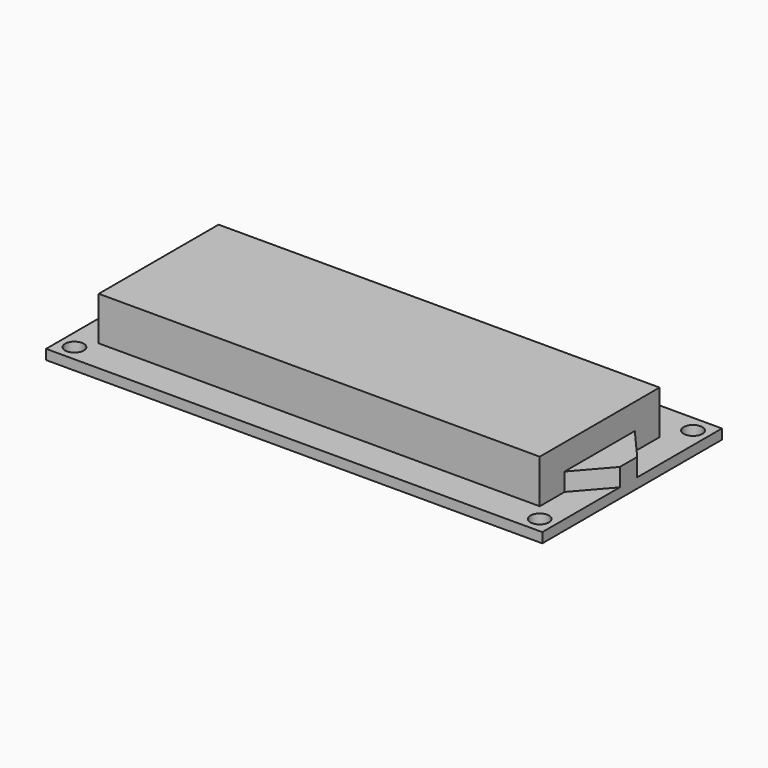
from build123d import *

# Parameters (mm, degrees)
F0_R          = 1.5
F0_W          = 40.7
F0_H          = 2.6
F1_DEPTH      = 1.6
F2_DEPTH      = 8.64
F3_DEPTH      = 8.4
F3_DEPTH_BACK = 3
F4_DEPTH      = 4.5


with BuildPart() as f1:
    # F0 (on Top) → F1 (new body)
    with BuildSketch(Plane.XY):
        Polygon((40, 18.1), (-40, 18.1), (-40, -18.1), (40, -18.1), (40, -2.475), (35.35, -7.8), (35.35, -12.8), (-35.75, -12.8), (-35.75, 11.35), (35.35, 11.35), (35.35, 6.35), (40, 1.025), align=None)
        with Locations((-37.5, -15.5)):
            Circle(F0_R, mode=Mode.SUBTRACT)
        with Locations((37.5, -15.5)):
            Circle(F0_R, mode=Mode.SUBTRACT)
        with Locations((-37.5, 15.4)):
            Circle(F0_R, mode=Mode.SUBTRACT)
        with Locations((-12.85, 15.4)):
            Rectangle(F0_W, F0_H, mode=Mode.SUBTRACT)
        with Locations((37.5, 15.4)):
            Circle(F0_R, mode=Mode.SUBTRACT)
        Polygon((35.35, -7.8), (35.35, 6.35), (35.35, 11.35), (-35.75, 11.35), (-35.75, -12.8), (35.35, -12.8), align=None)
    extrude(amount=F1_DEPTH)

    # F0 (on Top) → F2 (join)
    with BuildSketch(Plane.XY):
        Polygon((35.35, -7.8), (35.35, 6.35), (35.35, 11.35), (-35.75, 11.35), (-35.75, -12.8), (35.35, -12.8), align=None)
    extrude(amount=F2_DEPTH)

    # F0 (on Top) → F3 (join, two sides)
    with BuildSketch(Plane.XY) as f3_sk:
        with Locations((-12.85, 15.4)):
            Rectangle(F0_W, F0_H)
    extrude(amount=-F3_DEPTH)
    extrude(f3_sk.sketch, amount=F3_DEPTH_BACK)

    # F0 (on Top) → F4 (join)
    with BuildSketch(Plane.XY):
        Polygon((40, -2.475), (40, 1.025), (35.35, 6.35), (35.35, -7.8), align=None)
    extrude(amount=F4_DEPTH)


solid = f1.part
